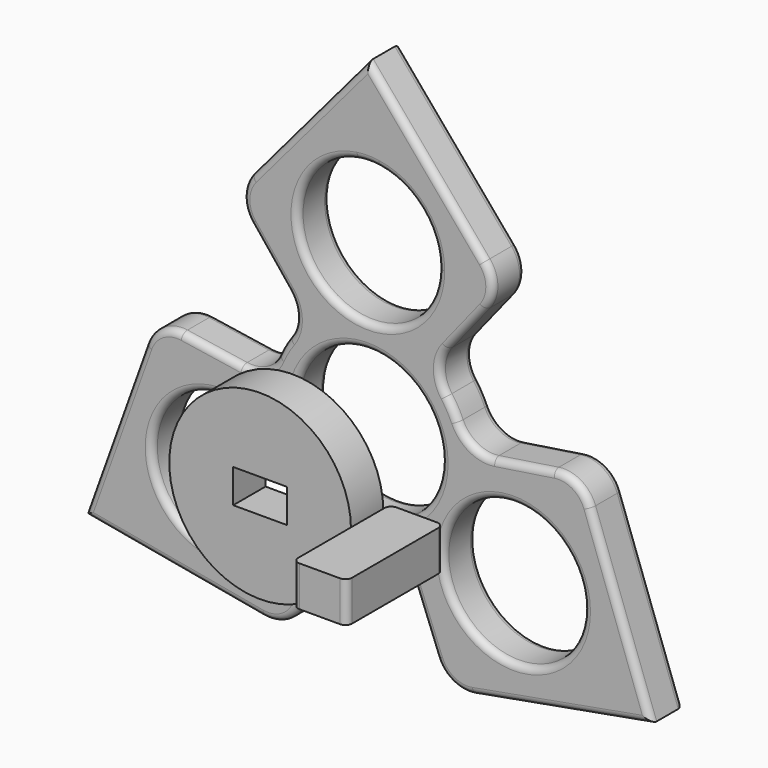
from build123d import *

# Parameters (mm, degrees)
F0_R     = 10.425
F0_R_2   = 10.925
F1_DEPTH = 6
F2_R     = 1
F4_DEPTH = 6
F6_START = 20
F5_R     = 13.5
F5_W     = 8
F5_H     = 5
F6_DEPTH = 6


with BuildPart() as f1:
    # F0 (on Front) → F1 (new body)
    with BuildSketch(Plane.XZ):
        with BuildLine():
            ThreePointArc((17.4295554729, 21.7869443412), (18.524732958, 24.9795892883), (17.3416493823, 28.1407138881))
            Line((17.3416493823, 28.1407138881), (0, 48.6290417612))
            Line((0, 48.6290417612), (-17.3416493823, 28.1407138881))
            ThreePointArc((-17.3416493823, 28.1407138881), (-18.524732958, 24.9795892883), (-17.4295554729, 21.7869443412))
            Line((-17.4295554729, 21.7869443412), (-11.8227663801, 14.7784579751))
            ThreePointArc((-11.8227663801, 14.7784579751), (-10.727964907, 11.7474168612), (-11.7099685557, 8.6779756524))
            ThreePointArc((-11.7099685557, 8.6779756524), (-12.6223202602, 7.2875), (-13.3703316463, 5.8021424205))
            ThreePointArc((-13.3703316463, 5.8021424205), (-15.5375438841, 3.4169817098), (-18.7099032252, 2.8495870406))
            Line((-18.7099032252, 2.8495870406), (-27.5828250068, 4.2009656456))
            ThreePointArc((-27.5828250068, 4.2009656456), (-30.8953253788, 3.5530946958), (-33.0413977989, 0.9479519645))
            Line((-33.0413977989, 0.9479519645), (-42.1139855269, -24.3145208806))
            Line((-42.1139855269, -24.3145208806), (-15.6997484166, -29.0886658526))
            ThreePointArc((-15.6997484166, -29.0886658526), (-12.3705924208, -28.5326839841), (-10.1532695338, -25.9879099868))
            Line((-10.1532695338, -25.9879099868), (-6.8871368452, -17.6280450157))
            ThreePointArc((-6.8871368452, -17.6280450157), (-4.8095789771, -15.164398571), (-1.6603630906, -14.480118073))
            ThreePointArc((-1.6603630906, -14.480118073), (0, -14.575), (1.6603630906, -14.480118073))
            ThreePointArc((1.6603630906, -14.480118073), (4.8095789771, -15.164398571), (6.8871368452, -17.6280450157))
            Line((6.8871368452, -17.6280450157), (10.1532695338, -25.9879099868))
            ThreePointArc((10.1532695338, -25.9879099868), (12.3705924208, -28.5326839841), (15.6997484166, -29.0886658526))
            Line((15.6997484166, -29.0886658526), (42.1139855269, -24.3145208806))
            Line((42.1139855269, -24.3145208806), (33.0413977989, 0.9479519645))
            ThreePointArc((33.0413977989, 0.9479519645), (30.8953253788, 3.5530946958), (27.5828250068, 4.2009656456))
            Line((27.5828250068, 4.2009656456), (18.7099032252, 2.8495870406))
            ThreePointArc((18.7099032252, 2.8495870406), (15.5375438841, 3.4169817098), (13.3703316463, 5.8021424205))
            ThreePointArc((13.3703316463, 5.8021424205), (12.6223202602, 7.2875), (11.7099685557, 8.6779756524))
            ThreePointArc((11.7099685557, 8.6779756524), (10.727964907, 11.7474168612), (11.8227663801, 14.7784579751))
            Line((11.8227663801, 14.7784579751), (17.4295554729, 21.7869443412))
        make_face()
        with Locations((-21.6506350946, -12.5)):
            Circle(F0_R, mode=Mode.SUBTRACT)
        with Locations((21.6506350946, -12.5)):
            Circle(F0_R, mode=Mode.SUBTRACT)
        Circle(F0_R_2, mode=Mode.SUBTRACT)
        with BuildLine():
            ThreePointArc((10.425, 25), (-6.8206717045, 17.1158981171), (-1.5, 35.316521943))
            ThreePointArc((-1.5, 35.316521943), (0, 35.425), (1.5, 35.316521943))
            ThreePointArc((1.5, 35.316521943), (7.8841018829, 31.8206717045), (10.425, 25))
        make_face(mode=Mode.SUBTRACT)
    extrude(amount=F1_DEPTH)

    # F2
    f2_edges = [f1.edges().sort_by_distance(p)[0] for p in [
        (30.895325, -6, 3.553095),
        (23.146364, -6, 3.525276),
        (15.537544, -6, 3.416982),
        (12.62232, -6, 7.2875),
        (10.727965, -6, 11.747417),
        (14.626161, -6, 18.282701),
        (18.524733, -6, 24.979589),
        (8.670825, -6, 38.384878),
        (-8.670825, -6, 38.384878),
        (-18.524733, -6, 24.979589),
        (-14.626161, -6, 18.282701),
        (-10.727965, -6, 11.747417),
        (-12.62232, -6, 7.2875),
        (-15.537544, -6, 3.416982),
        (-23.146364, -6, 3.525276),
        (-30.895325, -6, 3.553095),
        (-37.577692, -6, -11.683284),
        (-28.906867, -6, -26.701593),
        (-12.370592, -6, -28.532684),
        (-8.520203, -6, -21.807978),
        (-4.809579, -6, -15.164399),
        (0, -6, -14.575),
        (4.809579, -6, -15.164399),
        (8.520203, -6, -21.807978),
        (12.370592, -6, -28.532684),
        (28.906867, -6, -26.701593),
        (37.577692, -6, -11.683284),
        (-32.075635, -6, -12.5),
        (11.225635, -6, -12.5),
        (-10.925, -6, 0),
        (1.5, -6, 14.683478),
        (30.895325, 0, 3.553095),
        (23.146364, 0, 3.525276),
        (15.537544, 0, 3.416982),
        (12.62232, 0, 7.2875),
        (10.727965, 0, 11.747417),
        (14.626161, 0, 18.282701),
        (18.524733, 0, 24.979589),
        (8.670825, 0, 38.384878),
        (-8.670825, 0, 38.384878),
        (-18.524733, 0, 24.979589),
        (-14.626161, 0, 18.282701),
        (-10.727965, 0, 11.747417),
        (-12.62232, 0, 7.2875),
        (-15.537544, 0, 3.416982),
        (-23.146364, 0, 3.525276),
        (-30.895325, 0, 3.553095),
        (-37.577692, 0, -11.683284),
        (-28.906867, 0, -26.701593),
        (-12.370592, 0, -28.532684),
        (-8.520203, 0, -21.807978),
        (-4.809579, 0, -15.164399),
        (0, 0, -14.575),
        (4.809579, 0, -15.164399),
        (8.520203, 0, -21.807978),
        (12.370592, 0, -28.532684),
        (28.906867, 0, -26.701593),
        (37.577692, 0, -11.683284),
        (-32.075635, 0, -12.5),
        (11.225635, 0, -12.5),
        (-10.925, 0, 0),
        (1.5, 0, 14.683478),
    ]]
    fillet(f2_edges, radius=F2_R)


with BuildPart() as f4:
    # F3 (on Top) → F4 (new body)
    with BuildSketch(Plane.XY):
        with BuildLine():
            Line((27.347636193, -27.3550294042), (21.347636193, -27.3550294042))
            ThreePointArc((21.347636193, -27.3550294042), (20.6405294119, -27.647922623), (20.347636193, -28.3550294042))
            Line((20.347636193, -28.3550294042), (20.347636193, -44.3550294042))
            ThreePointArc((20.347636193, -44.3550294042), (20.6405294119, -45.0621361853), (21.347636193, -45.3550294042))
            Line((21.347636193, -45.3550294042), (27.347636193, -45.3550294042))
            ThreePointArc((27.347636193, -45.3550294042), (28.0547429742, -45.0621361853), (28.347636193, -44.3550294042))
            Line((28.347636193, -44.3550294042), (28.347636193, -28.3550294042))
            ThreePointArc((28.347636193, -28.3550294042), (28.0547429742, -27.647922623), (27.347636193, -27.3550294042))
        make_face()
    extrude(amount=F4_DEPTH)


with BuildPart() as f6:
    # F5 (on Front) → F6 (new body)
    with BuildSketch(Plane.XZ.offset(F6_START)):
        Circle(F5_R)
        Rectangle(F5_W, F5_H, mode=Mode.SUBTRACT)
    extrude(amount=F6_DEPTH)


solid = Compound([f1.part, f4.part, f6.part])
